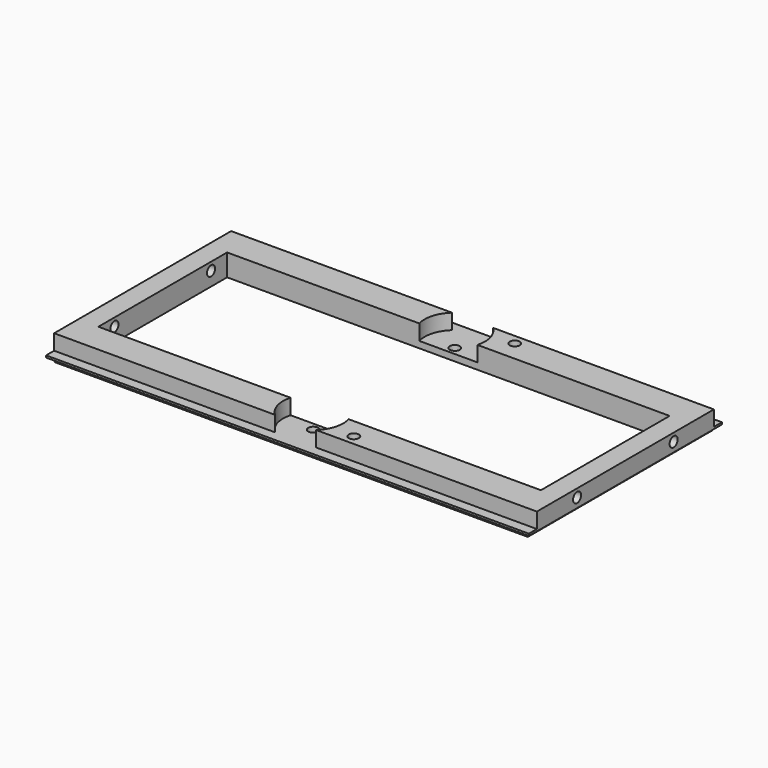
from build123d import *

# Parameters (mm, degrees)
F0_W      = 609.6
F0_H      = 304.8
F1_DEPTH  = 21.971
F2_W      = 596.9
F2_H      = 292.1
F3_DEPTH  = 5.715
F5_W      = 558.8
F5_H      = 203.2
F6_DEPTH  = 27.687
F8_W      = 12.7
F8_H      = 19.431
F9_DEPTH  = 609.601
F10_R     = 38.1
F11_DEPTH = 19.431
F12_R     = 6.35
F13_DEPTH = 8.256
F14_R     = 6.35
F15_DEPTH = 609.601
F16_R     = 6.35
F17_DEPTH = 27.687


with BuildPart() as f1:
    # F0 (on Top) → F1 (new body)
    with BuildSketch(Plane.XY):
        with Locations((304.8, 152.4)):
            Rectangle(F0_W, F0_H)
    extrude(amount=F1_DEPTH)

    # F2 (on face) → F3 (join)
    with BuildSketch(Plane(origin=(0, 0, 0), x_dir=(1, 0, 0), z_dir=(0, 0, -1))):
        with Locations((304.8, -152.4)):
            Rectangle(F2_W, F2_H)
    extrude(amount=F3_DEPTH)

    # F5 (on face) → F6 (cut, through all)
    with BuildSketch(Plane.XY.offset(21.971)):
        with Locations((304.8, 152.4)):
            Rectangle(F5_W, F5_H)
    extrude(amount=-F6_DEPTH, mode=Mode.SUBTRACT)

    # F8 (on face) → F9 (cut, through all)
    with BuildSketch(Plane(origin=(0, 0, 0), x_dir=(0, -1, 0), z_dir=(-1, 0, 0))):
        with Locations((-298.45, 12.2555)):
            Rectangle(F8_W, F8_H)
        with Locations((-6.35, 12.2555)):
            Rectangle(F8_W, F8_H)
    extrude(amount=-F9_DEPTH, mode=Mode.SUBTRACT)

    # F10 (on face) → F11 (cut, through all)
    with BuildSketch(Plane.XY.offset(21.971)):
        with Locations((304.8, 40.64)):
            Circle(F10_R)
        with Locations((304.8, 264.16)):
            Circle(F10_R)
    extrude(amount=-F11_DEPTH, mode=Mode.SUBTRACT)

    # F12 (on face) → F13 (cut, through all)
    with BuildSketch(Plane.XY.offset(2.54)):
        with Locations((304.8, 264.16)):
            Circle(F12_R)
        with Locations((304.8, 40.64)):
            Circle(F12_R)
    extrude(amount=-F13_DEPTH, mode=Mode.SUBTRACT)

    # F14 (on face) → F15 (cut, through all)
    with BuildSketch(Plane.YZ.offset(609.6)):
        with Locations((228.6, 11.811)):
            Circle(F14_R)
        with Locations((76.2, 11.811)):
            Circle(F14_R)
    extrude(amount=-F15_DEPTH, mode=Mode.SUBTRACT)

    # F16 (on face) → F17 (cut, through all)
    with BuildSketch(Plane.XY.offset(21.971)):
        with Locations((368.3, 25.4)):
            Circle(F16_R)
        with Locations((368.3, 279.4)):
            Circle(F16_R)
    extrude(amount=-F17_DEPTH, mode=Mode.SUBTRACT)


solid = f1.part
